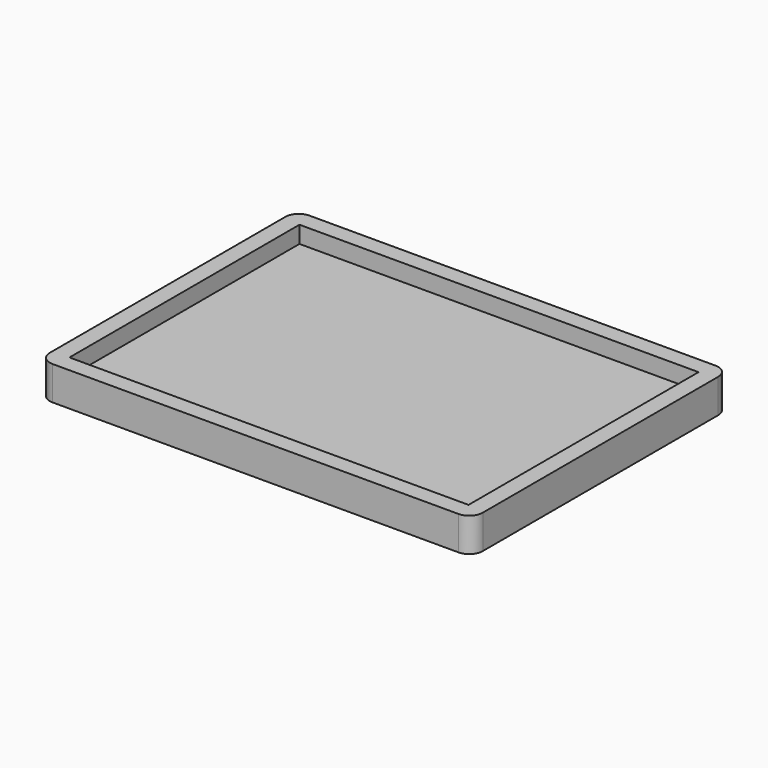
from build123d import *

# Parameters (mm, degrees)
F0_W     = 162.56
F0_H     = 120.65
F1_DEPTH = 6.35
F2_W     = 162.56
F2_H     = 120.65
F2_W_2   = 149.86
F2_H_2   = 107.95
F3_DEPTH = 6.35
F4_R     = 5.08


with BuildPart() as f1:
    # F0 (on Top) → F1 (new body)
    with BuildSketch(Plane.XY):
        with Locations((17.590381, -7.976995)):
            Rectangle(F0_W, F0_H)
    extrude(amount=F1_DEPTH)

    # F2 (on face) → F3 (join)
    with BuildSketch(Plane.XY.offset(6.35)):
        with Locations((17.590381, -7.976995)):
            Rectangle(F2_W, F2_H)
        with Locations((17.590381, -7.976995)):
            Rectangle(F2_W_2, F2_H_2, mode=Mode.SUBTRACT)
    extrude(amount=F3_DEPTH)

    # F4
    f4_edges = [f1.edges().sort_by_distance(p)[0] for p in [
        (98.870381, -68.301995, 6.35),
        (98.870381, 52.348005, 6.35),
        (-63.689619, 52.348005, 6.35),
        (-63.689619, -68.301995, 6.35),
    ]]
    fillet(f4_edges, radius=F4_R)


solid = f1.part
